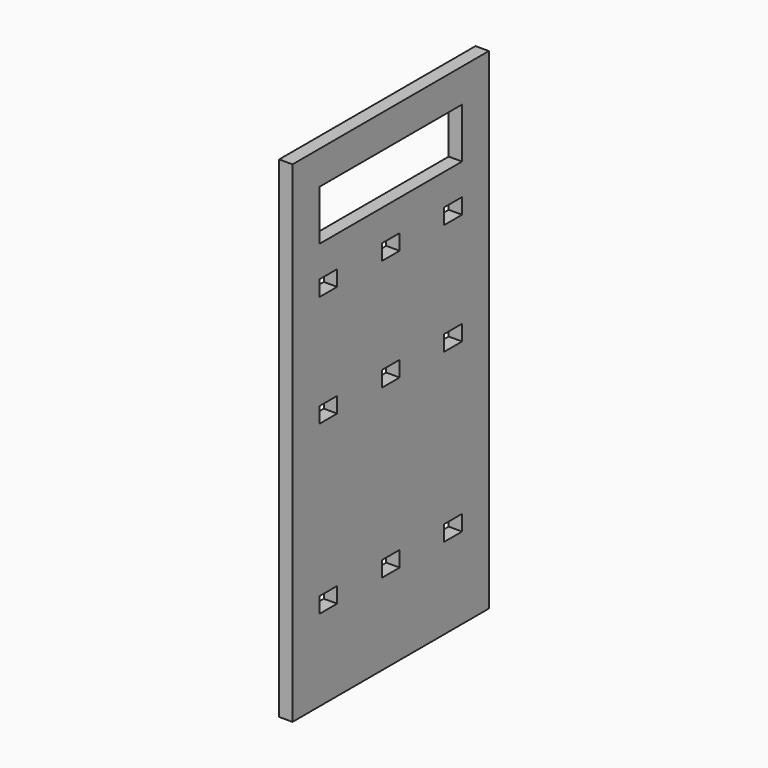
from build123d import *

# Parameters (mm, degrees)
F1_DEPTH = 6


with BuildPart() as f1:
    # F0 (on Right) → F1 (new body)
    with BuildSketch(Plane.YZ):
        Polygon((9.433792, 157.218419), (-47.5, 157.218419), (-47.5, 130.369142), (-32.5, 130.369142), (-32.5, 142.218419), (9.433792, 142.218419), align=None)
        Polygon((62.5, 157.218419), (9.433792, 157.218419), (9.433792, 142.218419), (47.5, 142.218419), (47.5, 129.836887), (62.5, 129.836887), align=None)
        Polygon((-32.5, 130.369142), (-47.5, 130.369142), (-47.5, -62.781581), (62.5, -62.781581), (62.5, 129.836887), (47.5, 129.836887), (47.5, 119.718419), (-32.5, 119.718419), align=None)
        Polygon((-22.5, -19.281581), (-22.5, -22.781581), (-22.5, -26.281581), (-32.5, -26.281581), (-32.5, -19.281581), align=None, mode=Mode.SUBTRACT)
        Polygon((12.5, -19.281581), (12.5, -22.781581), (12.5, -26.281581), (2.5, -26.281581), (2.5, -22.781581), (2.5, -19.281581), align=None, mode=Mode.SUBTRACT)
        Polygon((37.5, -22.781581), (37.5, -19.281581), (47.5, -19.281581), (47.5, -26.281581), (37.5, -26.281581), align=None, mode=Mode.SUBTRACT)
        Polygon((-22.5, 55.718419), (-22.5, 52.218419), (-22.5, 48.718419), (-32.5, 48.718419), (-32.5, 55.718419), align=None, mode=Mode.SUBTRACT)
        Polygon((-22.5, 102.218419), (-22.5, 98.718419), (-32.5, 98.718419), (-32.5, 105.718419), (-22.5, 105.718419), align=None, mode=Mode.SUBTRACT)
        Polygon((12.5, 55.718419), (12.5, 52.218419), (12.5, 48.718419), (2.5, 48.718419), (2.5, 52.218419), (2.5, 55.718419), align=None, mode=Mode.SUBTRACT)
        Polygon((37.5, 52.218419), (37.5, 55.718419), (47.5, 55.718419), (47.5, 48.718419), (37.5, 48.718419), align=None, mode=Mode.SUBTRACT)
        Polygon((2.5, 98.718419), (2.5, 102.218419), (2.5, 105.718419), (12.5, 105.718419), (12.5, 102.218419), (12.5, 98.718419), align=None, mode=Mode.SUBTRACT)
        Polygon((37.5, 98.718419), (37.5, 102.218419), (37.5, 105.718419), (47.5, 105.718419), (47.5, 98.718419), align=None, mode=Mode.SUBTRACT)
    extrude(amount=F1_DEPTH)


solid = f1.part
